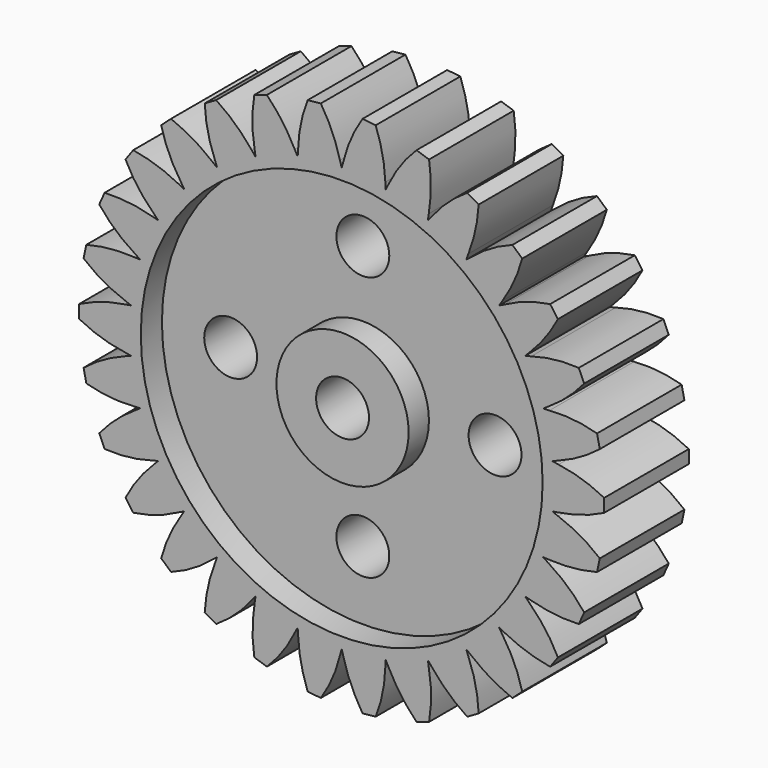
from build123d import *

# Parameters (mm, degrees)
F0_R      = 12.7
F1_DEPTH  = 3.175
F3_DEPTH  = 6.35
F4_COUNT  = 30
F5_R      = 11.1125
F6_DEPTH  = 1.5875
F7_R      = 12.065
F8_DEPTH  = 1.5875
F9_R      = 1.5875
F10_DEPTH = 3.302
F11_R     = 1.5875
F14_DEPTH = 3.302
F12_R     = 1.5875
F15_DEPTH = 3.302
F13_R     = 1.5875
F16_DEPTH = 3.302
F17_R     = 3.96875
F18_DEPTH = 1.524
F20_R     = 1.5875
F21_DEPTH = 25.4


with BuildPart() as f1:
    # F0 (on Front) → F1 (new body, symmetric)
    with BuildSketch(Plane.XZ):
        Circle(F0_R)
    extrude(amount=F1_DEPTH, both=True)

    # F5 (on face) → F6 (cut)
    with BuildSketch(Plane(origin=(0, 3.175, 0), x_dir=(-1, 0, 0), z_dir=(0, 1, 0))):
        Circle(F5_R)
    extrude(amount=-F6_DEPTH, mode=Mode.SUBTRACT)

    # F7 (on face) → F8 (cut)
    with BuildSketch(Plane.XZ.offset(3.175)):
        Circle(F7_R)
    extrude(amount=-F8_DEPTH, mode=Mode.SUBTRACT)

    # F9 (on face) → F10 (cut)
    with BuildSketch(Plane.XZ.offset(1.5875)):
        with Locations((0, 7.9375)):
            Circle(F9_R)
    extrude(amount=-F10_DEPTH, mode=Mode.SUBTRACT)

    # F11 (on face) → F14 (cut)
    with BuildSketch(Plane(origin=(0, 1.5875, 0), x_dir=(-1, 0, 0), z_dir=(0, 1, 0))):
        with Locations((-7.9375, 0)):
            Circle(F11_R)
    extrude(amount=-F14_DEPTH, mode=Mode.SUBTRACT)

    # F12 (on face) → F15 (cut)
    with BuildSketch(Plane(origin=(0, 1.5875, 0), x_dir=(-1, 0, 0), z_dir=(0, 1, 0))):
        with Locations((0, -7.9375)):
            Circle(F12_R)
    extrude(amount=-F15_DEPTH, mode=Mode.SUBTRACT)

    # F13 (on face) → F16 (cut)
    with BuildSketch(Plane(origin=(0, 1.5875, 0), x_dir=(-1, 0, 0), z_dir=(0, 1, 0))):
        with Locations((7.9375, 0)):
            Circle(F13_R)
    extrude(amount=-F16_DEPTH, mode=Mode.SUBTRACT)



with BuildPart() as f3:
    # F2 (on face) → F3 (new body)
    with BuildSketch(Plane(origin=(0, 3.175, 0), x_dir=(-1, 0, 0), z_dir=(0, 1, 0))):
        with BuildLine():
            Line((15.7585821152, -0.396875), (15.7585821152, 0))
            Line((15.7585821152, 0), (15.7585821152, 0.396875))
            ThreePointArc((15.7585821152, 0.396875), (14.4246939973, 0.941555991), (13.0208953295, 1.26603125))
            Line((13.0208953295, 1.26603125), (12.6297972173, 1.3335))
            ThreePointArc((12.6297972173, 1.3335), (12.6824371605, 0.6676733259), (12.7, 0))
            ThreePointArc((12.7, 0), (12.6824371605, -0.6676733259), (12.6297972173, -1.3335))
            Line((12.6297972173, -1.3335), (13.0208953295, -1.26603125))
            ThreePointArc((13.0208953295, -1.26603125), (14.4286982758, -0.9541687525), (15.7585821152, -0.396875))
        make_face()
    extrude(amount=-F3_DEPTH)


with BuildPart() as f4_1:
    # F4: instance of F3
    add(f3.part.rotate(Axis((0, 3.175, 0), (0, -1, 0)), 1 * 360 / F4_COUNT))


with BuildPart() as f4_2:
    # F4: instance of F3
    add(f3.part.rotate(Axis((0, 3.175, 0), (0, -1, 0)), 2 * 360 / F4_COUNT))


with BuildPart() as f4_3:
    # F4: instance of F3
    add(f3.part.rotate(Axis((0, 3.175, 0), (0, -1, 0)), 3 * 360 / F4_COUNT))


with BuildPart() as f4_4:
    # F4: instance of F3
    add(f3.part.rotate(Axis((0, 3.175, 0), (0, -1, 0)), 4 * 360 / F4_COUNT))


with BuildPart() as f4_5:
    # F4: instance of F3
    add(f3.part.rotate(Axis((0, 3.175, 0), (0, -1, 0)), 5 * 360 / F4_COUNT))


with BuildPart() as f4_6:
    # F4: instance of F3
    add(f3.part.rotate(Axis((0, 3.175, 0), (0, -1, 0)), 6 * 360 / F4_COUNT))


with BuildPart() as f4_7:
    # F4: instance of F3
    add(f3.part.rotate(Axis((0, 3.175, 0), (0, -1, 0)), 7 * 360 / F4_COUNT))


with BuildPart() as f4_8:
    # F4: instance of F3
    add(f3.part.rotate(Axis((0, 3.175, 0), (0, -1, 0)), 8 * 360 / F4_COUNT))


with BuildPart() as f4_9:
    # F4: instance of F3
    add(f3.part.rotate(Axis((0, 3.175, 0), (0, -1, 0)), 9 * 360 / F4_COUNT))


with BuildPart() as f4_10:
    # F4: instance of F3
    add(f3.part.rotate(Axis((0, 3.175, 0), (0, -1, 0)), 10 * 360 / F4_COUNT))


with BuildPart() as f4_11:
    # F4: instance of F3
    add(f3.part.rotate(Axis((0, 3.175, 0), (0, -1, 0)), 11 * 360 / F4_COUNT))


with BuildPart() as f4_12:
    # F4: instance of F3
    add(f3.part.rotate(Axis((0, 3.175, 0), (0, -1, 0)), 12 * 360 / F4_COUNT))


with BuildPart() as f4_13:
    # F4: instance of F3
    add(f3.part.rotate(Axis((0, 3.175, 0), (0, -1, 0)), 13 * 360 / F4_COUNT))


with BuildPart() as f4_14:
    # F4: instance of F3
    add(f3.part.rotate(Axis((0, 3.175, 0), (0, -1, 0)), 14 * 360 / F4_COUNT))


with BuildPart() as f4_15:
    # F4: instance of F3
    add(f3.part.rotate(Axis((0, 3.175, 0), (0, -1, 0)), 15 * 360 / F4_COUNT))


with BuildPart() as f4_16:
    # F4: instance of F3
    add(f3.part.rotate(Axis((0, 3.175, 0), (0, -1, 0)), 16 * 360 / F4_COUNT))


with BuildPart() as f4_17:
    # F4: instance of F3
    add(f3.part.rotate(Axis((0, 3.175, 0), (0, -1, 0)), 17 * 360 / F4_COUNT))


with BuildPart() as f4_18:
    # F4: instance of F3
    add(f3.part.rotate(Axis((0, 3.175, 0), (0, -1, 0)), 18 * 360 / F4_COUNT))


with BuildPart() as f4_19:
    # F4: instance of F3
    add(f3.part.rotate(Axis((0, 3.175, 0), (0, -1, 0)), 19 * 360 / F4_COUNT))


with BuildPart() as f4_20:
    # F4: instance of F3
    add(f3.part.rotate(Axis((0, 3.175, 0), (0, -1, 0)), 20 * 360 / F4_COUNT))


with BuildPart() as f4_21:
    # F4: instance of F3
    add(f3.part.rotate(Axis((0, 3.175, 0), (0, -1, 0)), 21 * 360 / F4_COUNT))


with BuildPart() as f4_22:
    # F4: instance of F3
    add(f3.part.rotate(Axis((0, 3.175, 0), (0, -1, 0)), 22 * 360 / F4_COUNT))


with BuildPart() as f4_23:
    # F4: instance of F3
    add(f3.part.rotate(Axis((0, 3.175, 0), (0, -1, 0)), 23 * 360 / F4_COUNT))


with BuildPart() as f4_24:
    # F4: instance of F3
    add(f3.part.rotate(Axis((0, 3.175, 0), (0, -1, 0)), 24 * 360 / F4_COUNT))


with BuildPart() as f4_25:
    # F4: instance of F3
    add(f3.part.rotate(Axis((0, 3.175, 0), (0, -1, 0)), 25 * 360 / F4_COUNT))


with BuildPart() as f4_26:
    # F4: instance of F3
    add(f3.part.rotate(Axis((0, 3.175, 0), (0, -1, 0)), 26 * 360 / F4_COUNT))


with BuildPart() as f4_27:
    # F4: instance of F3
    add(f3.part.rotate(Axis((0, 3.175, 0), (0, -1, 0)), 27 * 360 / F4_COUNT))


with BuildPart() as f4_28:
    # F4: instance of F3
    add(f3.part.rotate(Axis((0, 3.175, 0), (0, -1, 0)), 28 * 360 / F4_COUNT))


with BuildPart() as f4_29:
    # F4: instance of F3
    add(f3.part.rotate(Axis((0, 3.175, 0), (0, -1, 0)), 29 * 360 / F4_COUNT))


with BuildPart() as f18:
    # F17 (on face) → F18 (new body)
    with BuildSketch(Plane.XZ.offset(1.5875)):
        Circle(F17_R)
    extrude(amount=F18_DEPTH)


with BuildPart() as f1_1:
    add(f1.part)

    add(f3.part)  # F19 merges F3

    add(f4_1.part)  # F19 merges F4_1

    add(f4_2.part)  # F19 merges F4_2

    add(f4_3.part)  # F19 merges F4_3

    add(f4_4.part)  # F19 merges F4_4

    add(f4_5.part)  # F19 merges F4_5

    add(f4_6.part)  # F19 merges F4_6

    add(f4_7.part)  # F19 merges F4_7

    add(f4_8.part)  # F19 merges F4_8

    add(f4_9.part)  # F19 merges F4_9

    add(f4_10.part)  # F19 merges F4_10

    add(f4_11.part)  # F19 merges F4_11

    add(f4_12.part)  # F19 merges F4_12

    add(f4_13.part)  # F19 merges F4_13

    add(f4_14.part)  # F19 merges F4_14

    add(f4_15.part)  # F19 merges F4_15

    add(f4_16.part)  # F19 merges F4_16

    add(f4_17.part)  # F19 merges F4_17

    add(f4_18.part)  # F19 merges F4_18

    add(f4_19.part)  # F19 merges F4_19

    add(f4_20.part)  # F19 merges F4_20

    add(f4_21.part)  # F19 merges F4_21

    add(f4_22.part)  # F19 merges F4_22

    add(f4_23.part)  # F19 merges F4_23

    add(f4_24.part)  # F19 merges F4_24

    add(f4_25.part)  # F19 merges F4_25

    add(f4_26.part)  # F19 merges F4_26

    add(f4_27.part)  # F19 merges F4_27

    add(f4_28.part)  # F19 merges F4_28

    add(f4_29.part)  # F19 merges F4_29

    add(f18.part)  # F19 merges F18
    # F19: F18 across plane
    add(f18.part.mirror(Plane.XZ))

    # F20 (on face) → F21 (cut)
    with BuildSketch(Plane.XZ.offset(3.1115)):
        Circle(F20_R)
    extrude(amount=-F21_DEPTH, mode=Mode.SUBTRACT)


solid = f1_1.part
